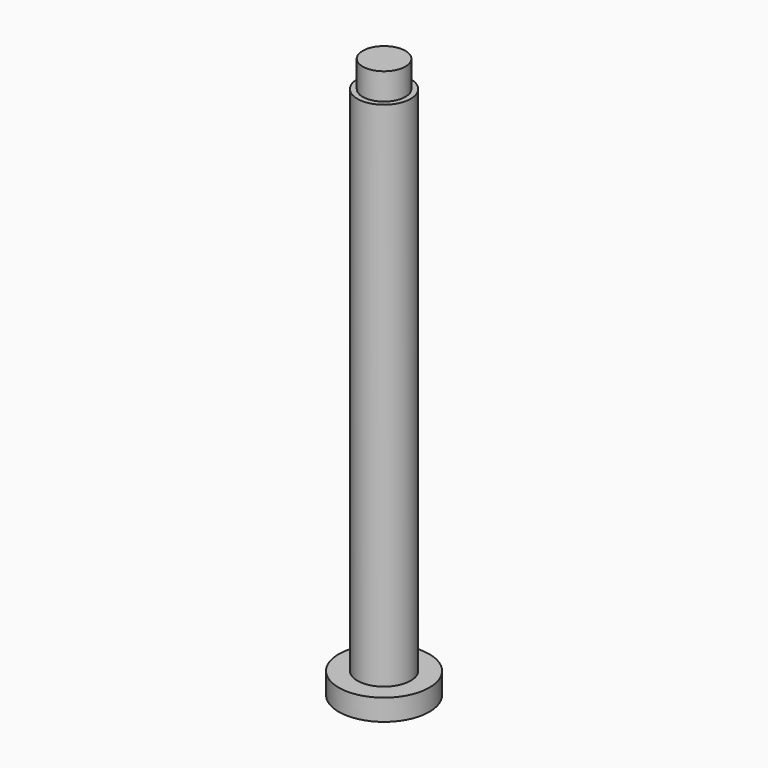
from build123d import *

# Parameters (mm, degrees)
F0_R     = 8.5
F1_DEPTH = 4
F2_R     = 5
F3_DEPTH = 100
F4_W     = 4
F4_H     = 5
F6_R     = 1.5
F7_DEPTH = 90


with BuildPart() as f1:
    # F0 (on Top) → F1 (new body)
    with BuildSketch(Plane.XY):
        Circle(F0_R)
    extrude(amount=F1_DEPTH)

    # F2 (on Top) → F3 (join)
    with BuildSketch(Plane.XY):
        Circle(F2_R)
    extrude(amount=F3_DEPTH)

    # F4 (on Right) → F5 (revolve)
    with BuildSketch(Plane.YZ):
        with Locations((2, 102.5)):
            Rectangle(F4_W, F4_H)
    revolve(axis=Axis((0, 0, 102.5), (0, 0, -1)))

    # F6 (on face) → F7 (cut)
    with BuildSketch(Plane(origin=(0, 0, 0), x_dir=(1, 0, 0), z_dir=(0, 0, -1))):
        Circle(F6_R)
    extrude(amount=-F7_DEPTH, mode=Mode.SUBTRACT)


solid = f1.part
